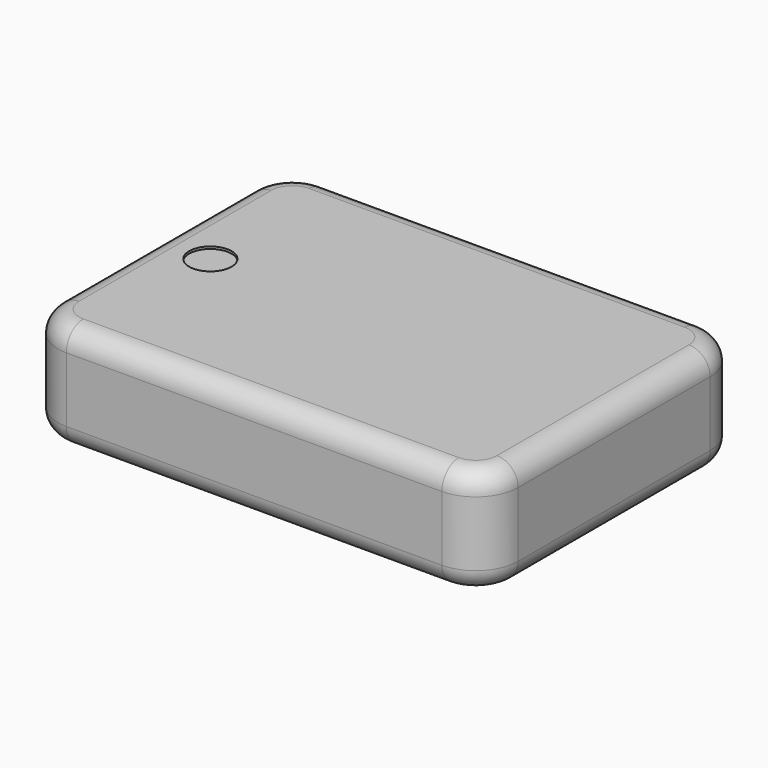
from build123d import *

# Parameters (mm, degrees)
F1_DEPTH = 24.13
F2_R     = 4.7625
F3_R     = 4.7625
F4_DEPTH = 0.508
F5_W     = 13.716
F5_H     = 6.35
F5_W_2   = 8.128
F5_H_2   = 2.794
F6_DEPTH = 6.35


with BuildPart() as f1:
    # F0 (on Top) → F1 (new body)
    with BuildSketch(Plane.XY):
        with BuildLine():
            ThreePointArc((0, 9.525), (2.789808, 2.789808), (9.525, 0))
            Line((9.525, 0), (93.98, 0))
            ThreePointArc((93.98, 0), (100.715192, 2.789808), (103.505, 9.525))
            Line((103.505, 9.525), (103.505, 63.5))
            ThreePointArc((103.505, 63.5), (100.715192, 70.235192), (93.98, 73.025))
            Line((93.98, 73.025), (9.525, 73.025))
            ThreePointArc((9.525, 73.025), (2.789808, 70.235192), (0, 63.5))
            Line((0, 63.5), (0, 9.525))
        make_face()
    extrude(amount=F1_DEPTH)

    # F2
    f2_edges = [f1.edges().sort_by_distance(p)[0] for p in [
        (0, 36.5125, 24.13),
        (2.789808, 2.789808, 24.13),
        (51.7525, 0, 24.13),
        (100.715192, 2.789808, 24.13),
        (103.505, 36.5125, 24.13),
        (100.715192, 70.235192, 24.13),
        (51.7525, 73.025, 24.13),
        (2.789808, 70.235192, 24.13),
        (0, 36.5125, 0),
        (2.789808, 2.789808, 0),
        (51.7525, 0, 0),
        (100.715192, 2.789808, 0),
        (103.505, 36.5125, 0),
        (100.715192, 70.235192, 0),
        (51.7525, 73.025, 0),
        (2.789808, 70.235192, 0),
    ]]
    fillet(f2_edges, radius=F2_R)

    # F3 (on face) → F4 (cut)
    with BuildSketch(Plane.XY.offset(24.13)):
        with Locations((12.7, 36.5125)):
            Circle(F3_R)
    extrude(amount=-F4_DEPTH, mode=Mode.SUBTRACT)

    # F5 (on face) → F6 (cut)
    with BuildSketch(Plane(origin=(0, 0, 0), x_dir=(0, -1, 0), z_dir=(-1, 0, 0))):
        with Locations((-51.3715, 12.065)):
            Rectangle(F5_W, F5_H)
        with Locations((-36.5125, 15.113)):
            Rectangle(F5_W_2, F5_H_2)
        with Locations((-21.6535, 12.065)):
            Rectangle(F5_W, F5_H)
    extrude(amount=-F6_DEPTH, mode=Mode.SUBTRACT)


solid = f1.part
